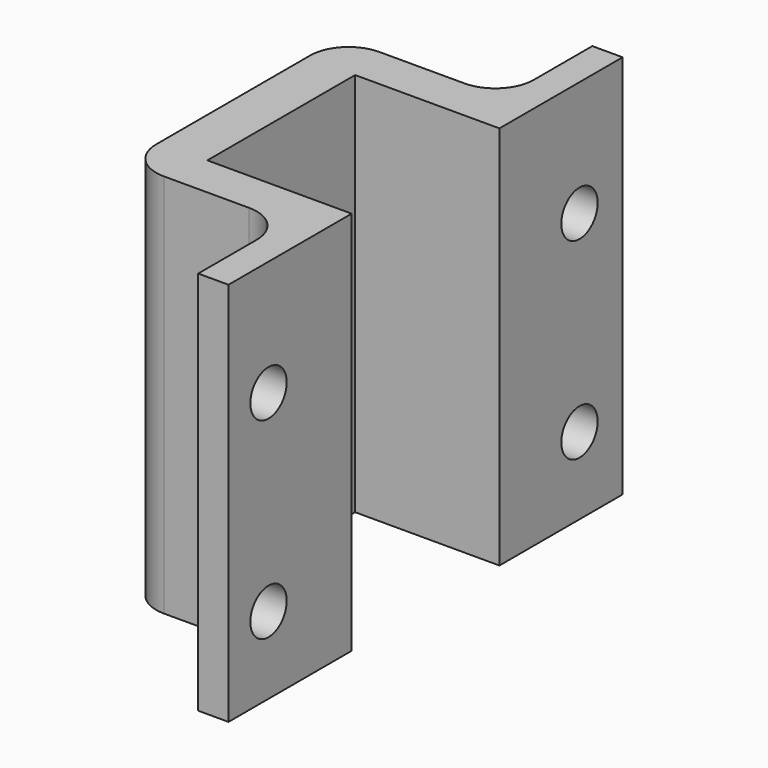
from build123d import *

# Parameters (mm, degrees)
F1_DEPTH = 25.4
F2_R     = 1.5
F3_R     = 1.5
F4_DEPTH = 25.4
F5_R     = 2.54
F6_R     = 2.54


with BuildPart() as f1:
    # F0 (on Top) → F1 (new body)
    with BuildSketch(Plane.XY):
        Polygon((-2, -7.366), (0, -7.366), (0, 2.794), (-9.525, 2.794), (-9.525, 14.986), (0, 14.986), (0, 25.146), (-2, 25.146), (-2, 17.78), (-12.7, 17.78), (-12.7, 0), (-2, 0), align=None)
    extrude(amount=F1_DEPTH)

    # F2 (on face) + F3 (on face) → F4 (cut)
    with BuildSketch(Plane(origin=(-2, 0, 0), x_dir=(0, -1, 0), z_dir=(-1, 0, 0))):
        with Locations((4.064, 5.08)):
            Circle(F2_R)
        with Locations((4.064, 17.78)):
            Circle(F2_R)
    with BuildSketch(Plane(origin=(-2, 0, 0), x_dir=(0, -1, 0), z_dir=(-1, 0, 0))):
        with Locations((-21.59, 5.08)):
            Circle(F3_R)
        with Locations((-21.59, 17.78)):
            Circle(F3_R)
    extrude(amount=-F4_DEPTH, mode=Mode.SUBTRACT)

    # F5
    f5_edges = [f1.edges().sort_by_distance(p)[0] for p in [
        (-2, 17.78, 12.7),
        (-2, 0, 12.7),
    ]]
    fillet(f5_edges, radius=F5_R)

    # F6
    f6_edges = [f1.edges().sort_by_distance(p)[0] for p in [
        (-12.7, 0, 12.7),
        (-12.7, 17.78, 12.7),
    ]]
    fillet(f6_edges, radius=F6_R)


solid = f1.part
